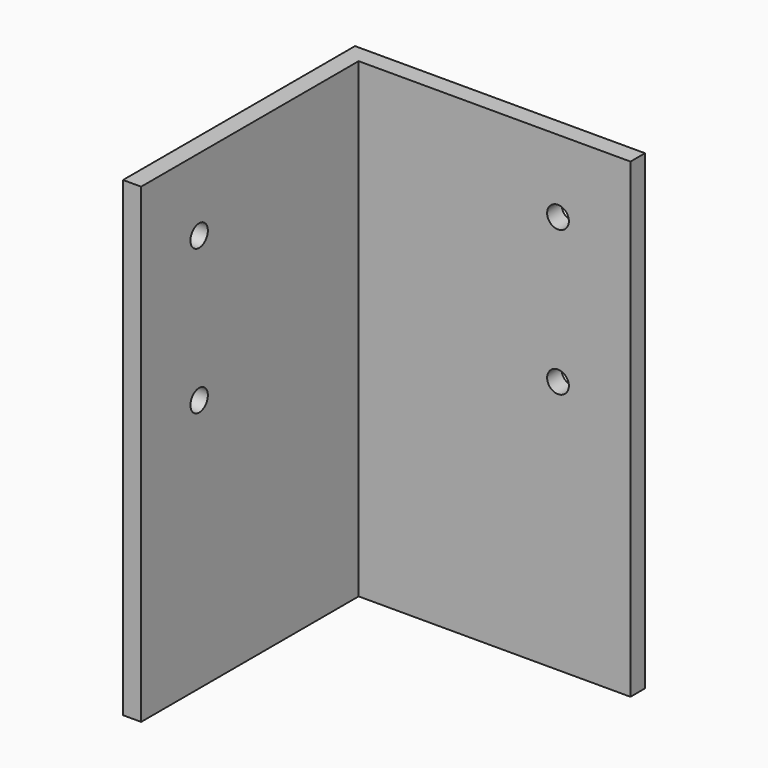
from build123d import *

# Parameters (mm, degrees)
F1_DEPTH = 82.55
F3_D     = 3.81
F5_D     = 3.81


with BuildPart() as f1:
    # F0 (on Top) → F1 (new body)
    with BuildSketch(Plane.XY):
        Polygon((25.4, 25.4), (-25.4, 25.4), (-25.4, -25.4), (-22.225, -25.4), (-22.225, 22.225), (25.4, 22.225), align=None)
    extrude(amount=F1_DEPTH)

    # F3 (through all)
    with Locations(Plane(origin=(-25.4, 0, 0), x_dir=(0, -1, 0), z_dir=(-1, 0, 0))):
        with Locations((12.7, 69.85), (12.7, 44.45)):
            Hole(F3_D / 2)

    # F5 (through all)
    with Locations(Plane(origin=(0, 25.4, 0), x_dir=(-1, 0, 0), z_dir=(0, 1, 0))):
        with Locations((-12.7, 69.85), (-12.7, 44.45)):
            Hole(F5_D / 2)


solid = f1.part
